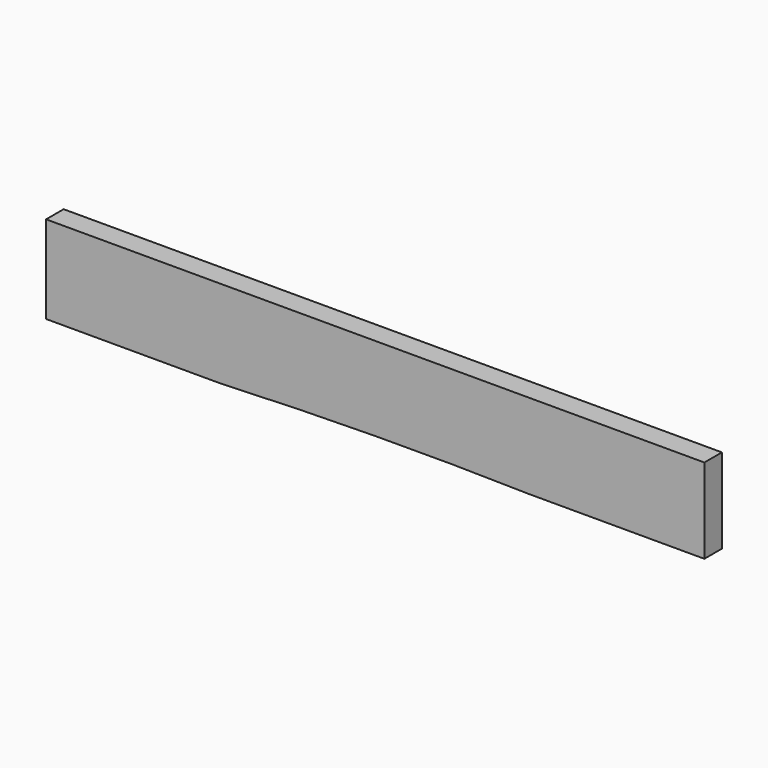
from build123d import *

# Parameters (mm, degrees)
F1_DEPTH = 25.4


with BuildPart() as f1:
    # F0 (on Front) → F1 (new body)
    with BuildSketch(Plane.XZ):
        with BuildLine():
            Line((381.003178, 66.259233), (-380.996822, 66.259233))
            Line((-380.996822, 66.259233), (-380.996822, -35.340767))
            Line((-380.996822, -35.340767), (-177.796822, -35.340767))
            ThreePointArc((-177.796822, -35.340767), (-0.025421, -30.66288), (177.803178, -31.905138))
            Line((177.803178, -31.905138), (381.003178, -31.905138))
            Line((381.003178, -31.905138), (381.003178, 66.259233))
        make_face()
    extrude(amount=-F1_DEPTH)


solid = f1.part
